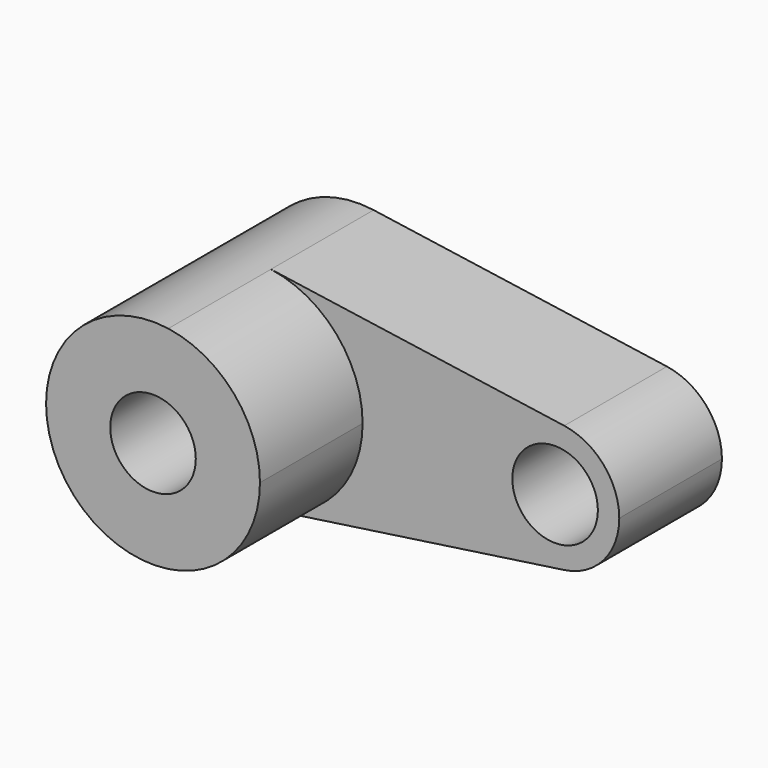
from build123d import *

# Parameters (mm, degrees)
F0_R     = 12.7
F1_DEPTH = 38.1
F2_DEPTH = 76.2


with BuildPart() as f1:
    # F0 (on Front) → F1 (new body)
    with BuildSketch(Plane.XZ):
        with BuildLine():
            ThreePointArc((4.535714, -31.42435), (24.000744, -20.785254), (31.75, 0))
            ThreePointArc((31.75, 0), (24.000744, 20.785254), (4.535714, 31.42435))
            ThreePointArc((4.535714, 31.42435), (-31.75, 0), (4.535714, -31.42435))
        make_face()
        Circle(F0_R, mode=Mode.SUBTRACT)
        with BuildLine():
            ThreePointArc((4.535714, 31.42435), (24.000744, 20.785254), (31.75, 0))
            ThreePointArc((31.75, 0), (24.000744, -20.785254), (4.535714, -31.42435))
            Line((4.535714, -31.42435), (91.621429, -18.85461))
            ThreePointArc((91.621429, -18.85461), (69.85, 0), (91.621429, 18.85461))
            Line((91.621429, 18.85461), (4.535714, 31.42435))
        make_face()
        with BuildLine():
            ThreePointArc((107.95, 0), (103.300446, 12.471152), (91.621429, 18.85461))
            ThreePointArc((91.621429, 18.85461), (69.85, 0), (91.621429, -18.85461))
            ThreePointArc((91.621429, -18.85461), (103.300446, -12.471152), (107.95, 0))
        make_face()
        with Locations((88.9, 0)):
            Circle(F0_R, mode=Mode.SUBTRACT)
    extrude(amount=F1_DEPTH)

    # F0 (on Front) → F2 (join)
    with BuildSketch(Plane.XZ):
        with BuildLine():
            ThreePointArc((4.535714, -31.42435), (24.000744, -20.785254), (31.75, 0))
            ThreePointArc((31.75, 0), (24.000744, 20.785254), (4.535714, 31.42435))
            ThreePointArc((4.535714, 31.42435), (-31.75, 0), (4.535714, -31.42435))
        make_face()
        Circle(F0_R, mode=Mode.SUBTRACT)
    extrude(amount=F2_DEPTH)


solid = f1.part
